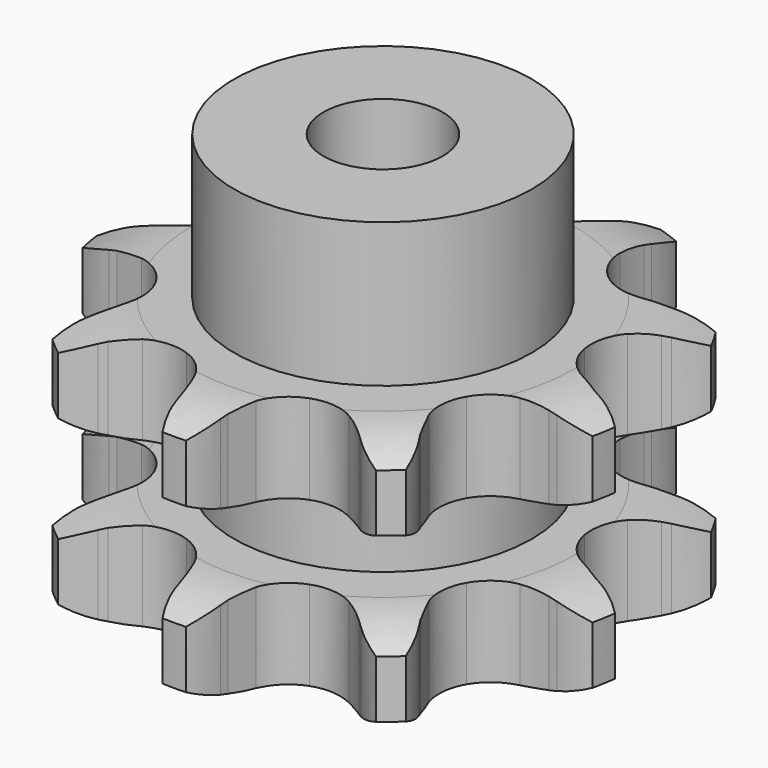
from build123d import *

# Parameters (mm, degrees)
PAD_DEPTH         = 25.5
SKETCH001_R       = 15
PAD001_DEPTH      = 40
SKETCH002_R       = 6
POCKET_DEPTH      = 0.001
POCKET_DEPTH_BACK = -40.001


with BuildPart() as part:
    # Sprocket → Pad (new body)
    with BuildSketch(Plane.XY):
        with BuildLine():
            ThreePointArc((-9.514802, 26.141704), (-7.412353, 24.683771), (-5.825038, 22.67721))
            Line((-5.825038, 22.67721), (-5.434483, 21.997709))
            ThreePointArc((-5.434483, 21.997709), (-4.695224, 20.852068), (-3.842323, 19.78832))
            ThreePointArc((-3.842323, 19.78832), (-2.105709, 18.514982), (0, 18.064197))
            ThreePointArc((0, 18.064197), (2.105709, 18.514982), (3.842323, 19.78832))
            ThreePointArc((3.842323, 19.78832), (4.695224, 20.852068), (5.434483, 21.997709))
            Line((5.434483, 21.997709), (5.825038, 22.67721))
            ThreePointArc((5.825038, 22.67721), (7.412353, 24.683771), (9.514802, 26.141704))
            ThreePointArc((9.514802, 26.141704), (10.18823, 23.673435), (10.114392, 21.116013))
            Line((10.114392, 21.116013), (9.976799, 20.344442))
            ThreePointArc((9.976799, 20.344442), (9.806701, 18.991642), (9.776296, 17.62853))
            ThreePointArc((9.776296, 17.62853), (10.288134, 15.536823), (11.611442, 13.837978))
            ThreePointArc((11.611442, 13.837978), (13.514268, 12.829775), (15.663077, 12.688935))
            Line((15.663077, 12.688935), (18.302911, 13.358005))
            ThreePointArc((18.302911, 13.358005), (18.6689, 13.498181), (19.038868, 13.627489))
            ThreePointArc((19.038868, 13.627489), (21.544615, 14.144297), (24.092324, 13.90971))
            ThreePointArc((24.092324, 13.90971), (23.021628, 11.586035), (21.321185, 9.674399))
            Line((21.321185, 9.674399), (20.719827, 9.171783))
            ThreePointArc((20.719827, 9.171783), (19.719961, 8.244816), (18.820478, 7.220156))
            ThreePointArc((18.820478, 7.220156), (17.868045, 5.288812), (17.789762, 3.136815))
            ThreePointArc((17.789762, 3.136815), (18.59935, 1.141374), (20.154903, -0.347744))
            Line((20.154903, -0.347744), (22.607203, -1.532059))
            ThreePointArc((22.607203, -1.532059), (22.97767, -1.659931), (23.3442, -1.798687))
            ThreePointArc((23.3442, -1.798687), (25.595911, -3.013451), (27.39678, -4.830792))
            ThreePointArc((27.39678, -4.830792), (25.08295, -5.922599), (22.551559, -6.293974))
            Line((22.551559, -6.293974), (21.767817, -6.292454))
            ThreePointArc((21.767817, -6.292454), (20.406032, -6.359851), (19.058349, -6.56661))
            ThreePointArc((19.058349, -6.56661), (17.087299, -7.433893), (15.644054, -9.032099))
            ThreePointArc((15.644054, -9.032099), (14.98159, -11.081089), (15.216026, -13.22171))
            Line((15.216026, -13.22171), (16.333334, -15.705255))
            ThreePointArc((16.333334, -15.705255), (16.534933, -16.041343), (16.726521, -16.383236))
            ThreePointArc((16.726521, -16.383236), (17.670596, -18.761172), (17.881978, -21.310912))
            ThreePointArc((17.881978, -21.310912), (15.407681, -20.659984), (13.229808, -19.317327))
            Line((13.229808, -19.317327), (12.630403, -18.812383))
            ThreePointArc((12.630403, -18.812383), (11.543894, -17.988673), (10.378607, -17.280786))
            ThreePointArc((10.378607, -17.280786), (8.311216, -16.678197), (6.178319, -16.974793))
            ThreePointArc((6.178319, -16.974793), (4.353777, -18.118587), (3.157401, -19.90909))
            Line((3.157401, -19.90909), (2.416916, -22.529788))
            ThreePointArc((2.416916, -22.529788), (2.355317, -22.916832), (2.282317, -23.301888))
            ThreePointArc((2.282317, -23.301888), (1.477013, -25.730332), (0, -27.81942))
            ThreePointArc((0, -27.81942), (-1.477013, -25.730332), (-2.282317, -23.301888))
            Line((-2.282317, -23.301888), (-2.416916, -22.529788))
            ThreePointArc((-2.416916, -22.529788), (-2.71976, -21.200395), (-3.157401, -19.90909))
            ThreePointArc((-3.157401, -19.90909), (-4.353777, -18.118587), (-6.178319, -16.974793))
            ThreePointArc((-6.178319, -16.974793), (-8.311216, -16.678197), (-10.378607, -17.280786))
            Line((-10.378607, -17.280786), (-12.630403, -18.812383))
            ThreePointArc((-12.630403, -18.812383), (-12.926378, -19.06928), (-13.229808, -19.317327))
            ThreePointArc((-13.229808, -19.317327), (-15.407681, -20.659984), (-17.881978, -21.310912))
            ThreePointArc((-17.881978, -21.310912), (-17.670596, -18.761172), (-16.726521, -16.383236))
            Line((-16.726521, -16.383236), (-16.333334, -15.705255))
            ThreePointArc((-16.333334, -15.705255), (-15.710809, -14.492217), (-15.216026, -13.22171))
            ThreePointArc((-15.216026, -13.22171), (-14.98159, -11.081089), (-15.644054, -9.032099))
            ThreePointArc((-15.644054, -9.032099), (-17.087299, -7.433893), (-19.058349, -6.56661))
            Line((-19.058349, -6.56661), (-21.767817, -6.292454))
            ThreePointArc((-21.767817, -6.292454), (-22.159677, -6.299001), (-22.551559, -6.293974))
            ThreePointArc((-22.551559, -6.293974), (-25.08295, -5.922599), (-27.39678, -4.830792))
            ThreePointArc((-27.39678, -4.830792), (-25.595911, -3.013451), (-23.3442, -1.798687))
            Line((-23.3442, -1.798687), (-22.607203, -1.532059))
            ThreePointArc((-22.607203, -1.532059), (-21.350595, -1.002969), (-20.154903, -0.347744))
            ThreePointArc((-20.154903, -0.347744), (-18.59935, 1.141374), (-17.789762, 3.136815))
            ThreePointArc((-17.789762, 3.136815), (-17.868045, 5.288812), (-18.820478, 7.220156))
            Line((-18.820478, 7.220156), (-20.719827, 9.171783))
            ThreePointArc((-20.719827, 9.171783), (-21.024217, 9.418651), (-21.321185, 9.674399))
            ThreePointArc((-21.321185, 9.674399), (-23.021628, 11.586035), (-24.092324, 13.90971))
            ThreePointArc((-24.092324, 13.90971), (-21.544615, 14.144297), (-19.038868, 13.627489))
            Line((-19.038868, 13.627489), (-18.302911, 13.358005))
            ThreePointArc((-18.302911, 13.358005), (-17.000201, 12.955579), (-15.663077, 12.688935))
            ThreePointArc((-15.663077, 12.688935), (-13.514268, 12.829775), (-11.611442, 13.837978))
            ThreePointArc((-11.611442, 13.837978), (-10.288134, 15.536823), (-9.776296, 17.62853))
            Line((-9.776296, 17.62853), (-9.976799, 20.344442))
            ThreePointArc((-9.976799, 20.344442), (-10.051292, 20.729212), (-10.114392, 21.116013))
            ThreePointArc((-10.114392, 21.116013), (-10.18823, 23.673435), (-9.514802, 26.141704))
        make_face()
    extrude(amount=PAD_DEPTH)

    # Sketch → Groove (revolve, cut)
    with BuildSketch(Plane.XZ):
        with BuildLine():
            ThreePointArc((19.325762, 0), (22.90347, 0.405129), (26.3, 1.6))
            Line((26.3, 1.6), (26.3, 7.4))
            ThreePointArc((26.3, 7.4), (22.90347, 8.594871), (19.325762, 9))
            Line((15, 9), (19.325762, 9))
            Line((15, 16.5), (15, 9))
            Line((19.325762, 16.5), (15, 16.5))
            ThreePointArc((19.325762, 16.5), (22.90347, 16.905129), (26.3, 18.1))
            Line((26.3, 18.1), (26.3, 23.9))
            ThreePointArc((26.3, 23.9), (22.90347, 25.094871), (19.325762, 25.5))
            Line((19.325762, 25.5), (29.325762, 25.5))
            Line((29.325762, 25.5), (29.325762, 0))
            Line((19.325762, 0), (29.325762, 0))
        make_face()
    revolve(axis=Axis((0, 0, 0), (0, 0, 1)), mode=Mode.SUBTRACT)

    # Sketch001 → Pad001 (join)
    with BuildSketch(Plane.XY):
        Circle(SKETCH001_R)
    extrude(amount=PAD001_DEPTH)

    # Sketch002 → Pocket (cut, two sides)
    with BuildSketch(Plane.XY) as pocket_sk:
        Circle(SKETCH002_R)
    extrude(amount=-POCKET_DEPTH, mode=Mode.SUBTRACT)
    extrude(pocket_sk.sketch, amount=-POCKET_DEPTH_BACK, mode=Mode.SUBTRACT)


solid = part.part
